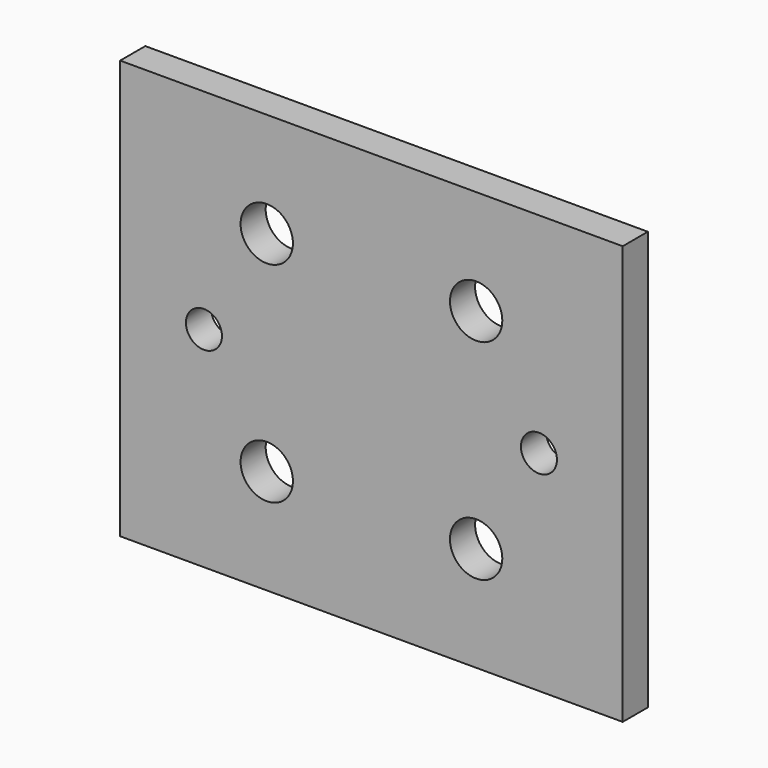
from build123d import *

# Parameters (mm, degrees)
F0_W     = 152.4
F0_H     = 127
F0_R     = 7.9375
F1_DEPTH = 9.525
F2_R     = 5.461
F3_DEPTH = 9.526


with BuildPart() as f1:
    # F0 (on Front) → F1 (new body)
    with BuildSketch(Plane.XZ):
        with Locations((76.2, 63.5)):
            Rectangle(F0_W, F0_H)
        with Locations((44.45, 31.75)):
            Circle(F0_R, mode=Mode.SUBTRACT)
        with Locations((107.95, 31.75)):
            Circle(F0_R, mode=Mode.SUBTRACT)
        with Locations((44.45, 95.25)):
            Circle(F0_R, mode=Mode.SUBTRACT)
        with Locations((107.95, 95.25)):
            Circle(F0_R, mode=Mode.SUBTRACT)
    extrude(amount=F1_DEPTH)

    # F2 (on face) → F3 (cut, through all)
    with BuildSketch(Plane.XZ.offset(9.525)):
        with Locations((25.4, 63.5)):
            Circle(F2_R)
        with Locations((127, 63.5)):
            Circle(F2_R)
    extrude(amount=-F3_DEPTH, mode=Mode.SUBTRACT)


solid = f1.part
